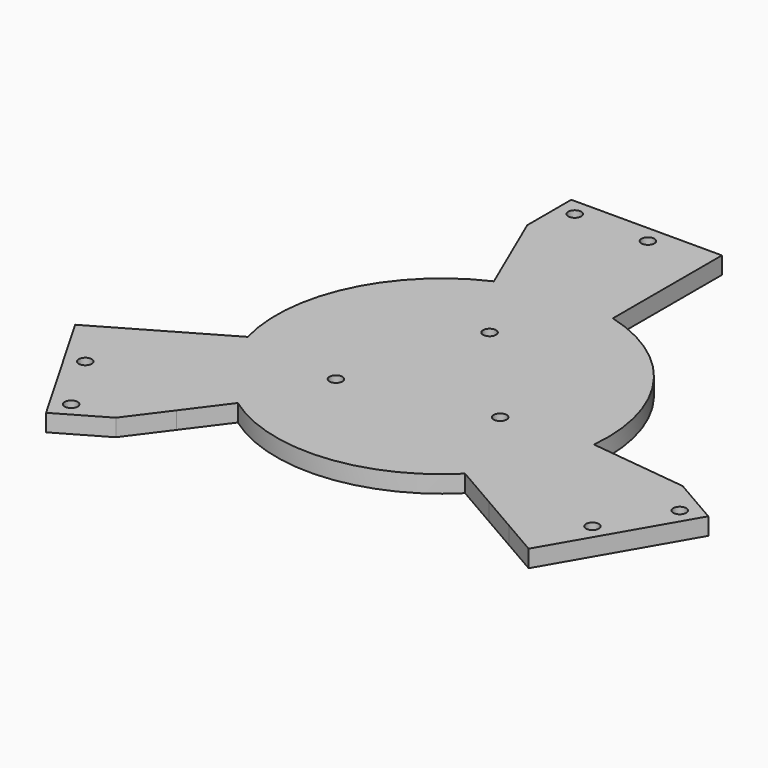
from build123d import *

# Parameters (mm, degrees)
F0_R     = 1.5
F1_DEPTH = 4


with BuildPart() as f1:
    # F0 (on Top) → F1 (new body)
    with BuildSketch(Plane.XY):
        with BuildLine():
            Line((10, 68.838424), (-25, 68.838424))
            Line((-25, 68.838424), (-25, 56.048434))
            Line((-25, 56.048434), (-15.945247, 35.027615))
            ThreePointArc((-15.945247, 35.027615), (-34.796929, 16.442581), (-37.185223, -9.921893))
            Line((-37.185223, -9.921893), (-47.426407, -15.834643))
            Line((-47.426407, -15.834643), (-56.234754, -20.920145))
            Line((-56.234754, -20.920145), (-64.615824, -25.758958))
            Line((-64.615824, -25.758958), (-47.115824, -56.069847))
            Line((-47.115824, -56.069847), (-36.039368, -49.674852))
            Line((-36.039368, -49.674852), (-29.243596, -40.556283))
            Line((-29.243596, -40.556283), (-22.362181, -31.322797))
            ThreePointArc((-22.362181, -31.322797), (3.158772, -38.356315), (27.185223, -27.242401))
            Line((27.185223, -27.242401), (37.426407, -33.155151))
            Line((37.426407, -33.155151), (46.234754, -38.240653))
            Line((46.234754, -38.240653), (54.615824, -43.079466))
            Line((54.615824, -43.079466), (72.115824, -12.768577))
            Line((72.115824, -12.768577), (61.039368, -6.373582))
            Line((61.039368, -6.373582), (49.744569, -5.047556))
            Line((49.744569, -5.047556), (38.307428, -3.704819))
            ThreePointArc((38.307428, -3.704819), (31.638157, 21.913734), (10, 37.164294))
            Line((10, 37.164294), (10, 59.160798))
            Line((10, 59.160798), (10, 68.838424))
        make_face()
        with Locations((-45.651723, -50.605746)):
            Circle(F0_R, mode=Mode.SUBTRACT)
        with Locations((-54.151723, -35.883314)):
            Circle(F0_R, mode=Mode.SUBTRACT)
        with Locations((-14.314554, -12.883314)):
            Circle(F0_R, mode=Mode.SUBTRACT)
        with Locations((58.151723, -28.955111)):
            Circle(F0_R, mode=Mode.SUBTRACT)
        with Locations((18.314554, -5.955111)):
            Circle(F0_R, mode=Mode.SUBTRACT)
        with Locations((66.651723, -14.232679)):
            Circle(F0_R, mode=Mode.SUBTRACT)
        with Locations((-4, 18.838424)):
            Circle(F0_R, mode=Mode.SUBTRACT)
        with Locations((-21, 64.838424)):
            Circle(F0_R, mode=Mode.SUBTRACT)
        with Locations((-4, 64.838424)):
            Circle(F0_R, mode=Mode.SUBTRACT)
    extrude(amount=F1_DEPTH)


solid = f1.part
